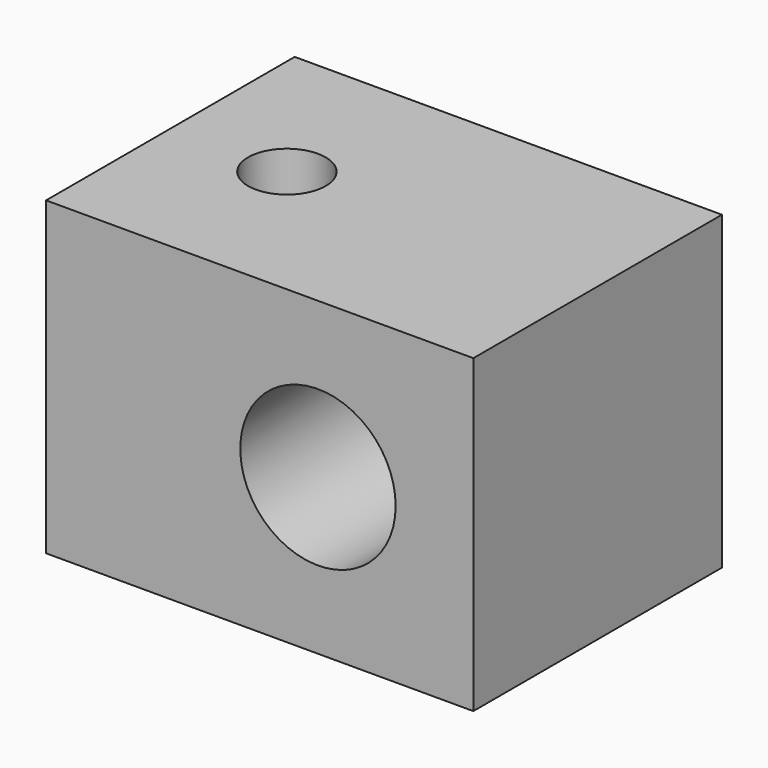
from build123d import *

# Parameters (mm, degrees)
F0_R     = 6.35
F1_DEPTH = 25.4
F2_R     = 3.175
F3_DEPTH = 50.8


with BuildPart() as f1:
    # F0 (on Front) → F1 (new body)
    with BuildSketch(Plane.XZ):
        Polygon((28.463945, 9.493677), (-6.461055, 9.493677), (-6.461055, -15.906323), (28.463945, -15.906323), (28.463945, -3.206323), align=None)
        with Locations((15.763945, -3.206323)):
            Circle(F0_R, mode=Mode.SUBTRACT)
    extrude(amount=F1_DEPTH)

    # F2 (on face) → F3 (cut)
    with BuildSketch(Plane.XY.offset(9.493677)):
        with Locations((3.063945, -12.7)):
            Circle(F2_R)
    extrude(amount=-F3_DEPTH, mode=Mode.SUBTRACT)


solid = f1.part
